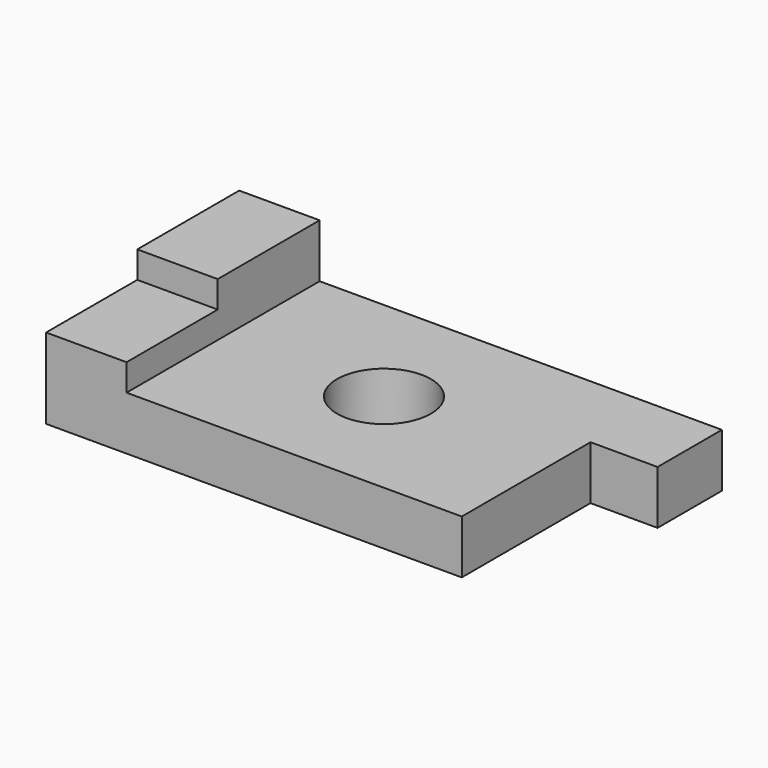
from build123d import *

# Parameters (mm, degrees)
F0_W     = 19.05
F0_H     = 30.1625
F0_R     = 11.1125
F0_H_2   = 26.9875
F1_DEPTH = 12.7
F2_W     = 19.05
F2_H     = 26.9875
F3_DEPTH = 6.35
F2_H_2   = 30.1625
F4_DEPTH = 12.7


with BuildPart() as f1:
    # F0 (on Top) → F1 (new body)
    with BuildSketch(Plane.XY):
        with Locations((-47.625, 3.96875)):
            Rectangle(F0_W, F0_H)
        Polygon((0, 19.05), (-38.1, 19.05), (-38.1, -11.1125), (-38.1, -38.1), (41.275, -38.1), (41.275, 0), (57.15, 0), (57.15, 19.05), align=None)
        with Locations((0, -9.525)):
            Circle(F0_R, mode=Mode.SUBTRACT)
        with Locations((-47.625, -24.60625)):
            Rectangle(F0_W, F0_H_2)
    extrude(amount=F1_DEPTH)

    # F2 (on face) → F3 (join)
    with BuildSketch(Plane.XY.offset(12.7)):
        with Locations((-47.625, -24.60625)):
            Rectangle(F2_W, F2_H)
    extrude(amount=F3_DEPTH)

    # F2 (on face) → F4 (join)
    with BuildSketch(Plane.XY.offset(12.7)):
        with Locations((-47.625, 3.96875)):
            Rectangle(F2_W, F2_H_2)
    extrude(amount=F4_DEPTH)


solid = f1.part
